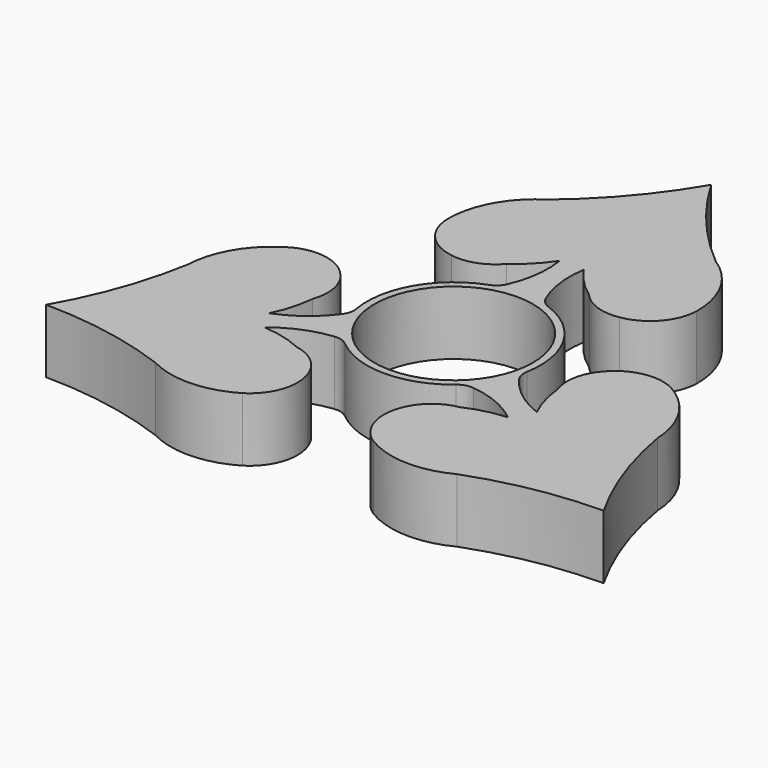
from build123d import *

# Parameters (mm, degrees)
F0_R     = 11.049
F1_DEPTH = 8.89


with BuildPart() as f1:
    # F0 (on Top) → F1 (new body)
    with BuildSketch(Plane.XY):
        with BuildLine():
            ThreePointArc((11.714875, 31.015255), (5.251306, 37.412893), (0, 44.837937))
            ThreePointArc((0, 44.837937), (-5.251306, 37.412893), (-11.714875, 31.015255))
            ThreePointArc((-11.714875, 31.015255), (-15.901101, 26.520837), (-17.367264, 20.556388))
            ThreePointArc((-17.367264, 20.556388), (-15.673703, 16.382272), (-11.714875, 14.233069))
            ThreePointArc((-11.714875, 14.233069), (-8.437028, 14.509929), (-5.732354, 16.382272))
            ThreePointArc((-5.732354, 16.382272), (-3.512988, 18.279396), (-1.68543, 20.556388))
            ThreePointArc((-1.68543, 20.556388), (-1.608188, 16.559998), (-2.668499, 12.706059))
            ThreePointArc((-2.668499, 12.706059), (-3.257242, 11.872099), (-4.126771, 11.337283))
            ThreePointArc((-4.126771, 11.337283), (-10.448596, 6.0325), (-11.881761, -2.094753))
            ThreePointArc((-11.881761, -2.094753), (-11.786859, -2.575692), (-11.672498, -3.052378))
            ThreePointArc((-11.672498, -3.052378), (-10.448596, -6.0325), (-8.479686, -8.582491))
            ThreePointArc((-8.479686, -8.582491), (-8.124044, -8.919873), (-7.75499, -9.24253))
            ThreePointArc((-7.75499, -9.24253), (0, -12.065), (7.75499, -9.24253))
            ThreePointArc((7.75499, -9.24253), (8.124044, -8.919873), (8.479686, -8.582491))
            ThreePointArc((8.479686, -8.582491), (10.685028, -5.603072), (11.881761, -2.094753))
            ThreePointArc((11.881761, -2.094753), (10.448596, 6.0325), (4.126771, 11.337283))
            ThreePointArc((4.126771, 11.337283), (3.257242, 11.872099), (2.668499, 12.706059))
            ThreePointArc((2.668499, 12.706059), (1.608188, 16.559998), (1.68543, 20.556388))
            ThreePointArc((1.68543, 20.556388), (3.512988, 18.279396), (5.732354, 16.382272))
            ThreePointArc((5.732354, 16.382272), (8.437028, 14.509929), (11.714875, 14.233069))
            ThreePointArc((11.714875, 14.233069), (15.673703, 16.382272), (17.367264, 20.556388))
            ThreePointArc((17.367264, 20.556388), (15.901101, 26.520837), (11.714875, 31.015255))
        make_face()
        Circle(F0_R, mode=Mode.SUBTRACT)
        with BuildLine():
            ThreePointArc((11.714875, 31.015255), (5.251306, 37.412893), (0, 44.837937))
            ThreePointArc((0, 44.837937), (-5.251306, 37.412893), (-11.714875, 31.015255))
            ThreePointArc((-11.714875, 31.015255), (-15.901101, 26.520837), (-17.367264, 20.556388))
            ThreePointArc((-17.367264, 20.556388), (-15.673703, 16.382272), (-11.714875, 14.233069))
            ThreePointArc((-11.714875, 14.233069), (-8.437028, 14.509929), (-5.732354, 16.382272))
            ThreePointArc((-5.732354, 16.382272), (-3.512988, 18.279396), (-1.68543, 20.556388))
            ThreePointArc((-1.68543, 20.556388), (-1.608188, 16.559998), (-2.668499, 12.706059))
            ThreePointArc((-2.668499, 12.706059), (-3.257242, 11.872099), (-4.126771, 11.337283))
            ThreePointArc((-4.126771, 11.337283), (-10.448596, 6.0325), (-11.881761, -2.094753))
            ThreePointArc((-11.881761, -2.094753), (-11.786859, -2.575692), (-11.672498, -3.052378))
            ThreePointArc((-11.672498, -3.052378), (-10.448596, -6.0325), (-8.479686, -8.582491))
            ThreePointArc((-8.479686, -8.582491), (-8.124044, -8.919873), (-7.75499, -9.24253))
            ThreePointArc((-7.75499, -9.24253), (0, -12.065), (7.75499, -9.24253))
            ThreePointArc((7.75499, -9.24253), (8.124044, -8.919873), (8.479686, -8.582491))
            ThreePointArc((8.479686, -8.582491), (10.685028, -5.603072), (11.881761, -2.094753))
            ThreePointArc((11.881761, -2.094753), (10.448596, 6.0325), (4.126771, 11.337283))
            ThreePointArc((4.126771, 11.337283), (3.257242, 11.872099), (2.668499, 12.706059))
            ThreePointArc((2.668499, 12.706059), (1.608188, 16.559998), (1.68543, 20.556388))
            ThreePointArc((1.68543, 20.556388), (3.512988, 18.279396), (5.732354, 16.382272))
            ThreePointArc((5.732354, 16.382272), (8.437028, 14.509929), (11.714875, 14.233069))
            ThreePointArc((11.714875, 14.233069), (15.673703, 16.382272), (17.367264, 20.556388))
            ThreePointArc((17.367264, 20.556388), (15.901101, 26.520837), (11.714875, 31.015255))
        make_face()
        Circle(F0_R, mode=Mode.SUBTRACT)
        with BuildLine():
            ThreePointArc((11.714875, 31.015255), (5.251306, 37.412893), (0, 44.837937))
            ThreePointArc((0, 44.837937), (-5.251306, 37.412893), (-11.714875, 31.015255))
            ThreePointArc((-11.714875, 31.015255), (-15.901101, 26.520837), (-17.367264, 20.556388))
            ThreePointArc((-17.367264, 20.556388), (-15.673703, 16.382272), (-11.714875, 14.233069))
            ThreePointArc((-11.714875, 14.233069), (-8.437028, 14.509929), (-5.732354, 16.382272))
            ThreePointArc((-5.732354, 16.382272), (-3.512988, 18.279396), (-1.68543, 20.556388))
            ThreePointArc((-1.68543, 20.556388), (-1.608188, 16.559998), (-2.668499, 12.706059))
            ThreePointArc((-2.668499, 12.706059), (-3.257242, 11.872099), (-4.126771, 11.337283))
            ThreePointArc((-4.126771, 11.337283), (-10.448596, 6.0325), (-11.881761, -2.094753))
            ThreePointArc((-11.881761, -2.094753), (-11.786859, -2.575692), (-11.672498, -3.052378))
            ThreePointArc((-11.672498, -3.052378), (-10.448596, -6.0325), (-8.479686, -8.582491))
            ThreePointArc((-8.479686, -8.582491), (-8.124044, -8.919873), (-7.75499, -9.24253))
            ThreePointArc((-7.75499, -9.24253), (0, -12.065), (7.75499, -9.24253))
            ThreePointArc((7.75499, -9.24253), (8.124044, -8.919873), (8.479686, -8.582491))
            ThreePointArc((8.479686, -8.582491), (10.685028, -5.603072), (11.881761, -2.094753))
            ThreePointArc((11.881761, -2.094753), (10.448596, 6.0325), (4.126771, 11.337283))
            ThreePointArc((4.126771, 11.337283), (3.257242, 11.872099), (2.668499, 12.706059))
            ThreePointArc((2.668499, 12.706059), (1.608188, 16.559998), (1.68543, 20.556388))
            ThreePointArc((1.68543, 20.556388), (3.512988, 18.279396), (5.732354, 16.382272))
            ThreePointArc((5.732354, 16.382272), (8.437028, 14.509929), (11.714875, 14.233069))
            ThreePointArc((11.714875, 14.233069), (15.673703, 16.382272), (17.367264, 20.556388))
            ThreePointArc((17.367264, 20.556388), (15.901101, 26.520837), (11.714875, 31.015255))
        make_face()
        Circle(F0_R, mode=Mode.SUBTRACT)
        with BuildLine():
            ThreePointArc((11.714875, 31.015255), (5.251306, 37.412893), (0, 44.837937))
            ThreePointArc((0, 44.837937), (-5.251306, 37.412893), (-11.714875, 31.015255))
            ThreePointArc((-11.714875, 31.015255), (-15.901101, 26.520837), (-17.367264, 20.556388))
            ThreePointArc((-17.367264, 20.556388), (-15.673703, 16.382272), (-11.714875, 14.233069))
            ThreePointArc((-11.714875, 14.233069), (-8.437028, 14.509929), (-5.732354, 16.382272))
            ThreePointArc((-5.732354, 16.382272), (-3.512988, 18.279396), (-1.68543, 20.556388))
            ThreePointArc((-1.68543, 20.556388), (-1.608188, 16.559998), (-2.668499, 12.706059))
            ThreePointArc((-2.668499, 12.706059), (-3.257242, 11.872099), (-4.126771, 11.337283))
            ThreePointArc((-4.126771, 11.337283), (-10.448596, 6.0325), (-11.881761, -2.094753))
            ThreePointArc((-11.881761, -2.094753), (-11.786859, -2.575692), (-11.672498, -3.052378))
            ThreePointArc((-11.672498, -3.052378), (-10.448596, -6.0325), (-8.479686, -8.582491))
            ThreePointArc((-8.479686, -8.582491), (-8.124044, -8.919873), (-7.75499, -9.24253))
            ThreePointArc((-7.75499, -9.24253), (0, -12.065), (7.75499, -9.24253))
            ThreePointArc((7.75499, -9.24253), (8.124044, -8.919873), (8.479686, -8.582491))
            ThreePointArc((8.479686, -8.582491), (10.685028, -5.603072), (11.881761, -2.094753))
            ThreePointArc((11.881761, -2.094753), (10.448596, 6.0325), (4.126771, 11.337283))
            ThreePointArc((4.126771, 11.337283), (3.257242, 11.872099), (2.668499, 12.706059))
            ThreePointArc((2.668499, 12.706059), (1.608188, 16.559998), (1.68543, 20.556388))
            ThreePointArc((1.68543, 20.556388), (3.512988, 18.279396), (5.732354, 16.382272))
            ThreePointArc((5.732354, 16.382272), (8.437028, 14.509929), (11.714875, 14.233069))
            ThreePointArc((11.714875, 14.233069), (15.673703, 16.382272), (17.367264, 20.556388))
            ThreePointArc((17.367264, 20.556388), (15.901101, 26.520837), (11.714875, 31.015255))
        make_face()
        Circle(F0_R, mode=Mode.SUBTRACT)
        with BuildLine():
            ThreePointArc((11.714875, 31.015255), (5.251306, 37.412893), (0, 44.837937))
            ThreePointArc((0, 44.837937), (-5.251306, 37.412893), (-11.714875, 31.015255))
            ThreePointArc((-11.714875, 31.015255), (-15.901101, 26.520837), (-17.367264, 20.556388))
            ThreePointArc((-17.367264, 20.556388), (-15.673703, 16.382272), (-11.714875, 14.233069))
            ThreePointArc((-11.714875, 14.233069), (-8.437028, 14.509929), (-5.732354, 16.382272))
            ThreePointArc((-5.732354, 16.382272), (-3.512988, 18.279396), (-1.68543, 20.556388))
            ThreePointArc((-1.68543, 20.556388), (-1.608188, 16.559998), (-2.668499, 12.706059))
            ThreePointArc((-2.668499, 12.706059), (-3.257242, 11.872099), (-4.126771, 11.337283))
            ThreePointArc((-4.126771, 11.337283), (-10.448596, 6.0325), (-11.881761, -2.094753))
            ThreePointArc((-11.881761, -2.094753), (-11.786859, -2.575692), (-11.672498, -3.052378))
            ThreePointArc((-11.672498, -3.052378), (-10.448596, -6.0325), (-8.479686, -8.582491))
            ThreePointArc((-8.479686, -8.582491), (-8.124044, -8.919873), (-7.75499, -9.24253))
            ThreePointArc((-7.75499, -9.24253), (0, -12.065), (7.75499, -9.24253))
            ThreePointArc((7.75499, -9.24253), (8.124044, -8.919873), (8.479686, -8.582491))
            ThreePointArc((8.479686, -8.582491), (10.685028, -5.603072), (11.881761, -2.094753))
            ThreePointArc((11.881761, -2.094753), (10.448596, 6.0325), (4.126771, 11.337283))
            ThreePointArc((4.126771, 11.337283), (3.257242, 11.872099), (2.668499, 12.706059))
            ThreePointArc((2.668499, 12.706059), (1.608188, 16.559998), (1.68543, 20.556388))
            ThreePointArc((1.68543, 20.556388), (3.512988, 18.279396), (5.732354, 16.382272))
            ThreePointArc((5.732354, 16.382272), (8.437028, 14.509929), (11.714875, 14.233069))
            ThreePointArc((11.714875, 14.233069), (15.673703, 16.382272), (17.367264, 20.556388))
            ThreePointArc((17.367264, 20.556388), (15.901101, 26.520837), (11.714875, 31.015255))
        make_face()
        Circle(F0_R, mode=Mode.SUBTRACT)
        with BuildLine():
            ThreePointArc((11.714875, 31.015255), (5.251306, 37.412893), (0, 44.837937))
            ThreePointArc((0, 44.837937), (-5.251306, 37.412893), (-11.714875, 31.015255))
            ThreePointArc((-11.714875, 31.015255), (-15.901101, 26.520837), (-17.367264, 20.556388))
            ThreePointArc((-17.367264, 20.556388), (-15.673703, 16.382272), (-11.714875, 14.233069))
            ThreePointArc((-11.714875, 14.233069), (-8.437028, 14.509929), (-5.732354, 16.382272))
            ThreePointArc((-5.732354, 16.382272), (-3.512988, 18.279396), (-1.68543, 20.556388))
            ThreePointArc((-1.68543, 20.556388), (-1.608188, 16.559998), (-2.668499, 12.706059))
            ThreePointArc((-2.668499, 12.706059), (-3.257242, 11.872099), (-4.126771, 11.337283))
            ThreePointArc((-4.126771, 11.337283), (-10.448596, 6.0325), (-11.881761, -2.094753))
            ThreePointArc((-11.881761, -2.094753), (-11.786859, -2.575692), (-11.672498, -3.052378))
            ThreePointArc((-11.672498, -3.052378), (-10.448596, -6.0325), (-8.479686, -8.582491))
            ThreePointArc((-8.479686, -8.582491), (-8.124044, -8.919873), (-7.75499, -9.24253))
            ThreePointArc((-7.75499, -9.24253), (0, -12.065), (7.75499, -9.24253))
            ThreePointArc((7.75499, -9.24253), (8.124044, -8.919873), (8.479686, -8.582491))
            ThreePointArc((8.479686, -8.582491), (10.685028, -5.603072), (11.881761, -2.094753))
            ThreePointArc((11.881761, -2.094753), (10.448596, 6.0325), (4.126771, 11.337283))
            ThreePointArc((4.126771, 11.337283), (3.257242, 11.872099), (2.668499, 12.706059))
            ThreePointArc((2.668499, 12.706059), (1.608188, 16.559998), (1.68543, 20.556388))
            ThreePointArc((1.68543, 20.556388), (3.512988, 18.279396), (5.732354, 16.382272))
            ThreePointArc((5.732354, 16.382272), (8.437028, 14.509929), (11.714875, 14.233069))
            ThreePointArc((11.714875, 14.233069), (15.673703, 16.382272), (17.367264, 20.556388))
            ThreePointArc((17.367264, 20.556388), (15.901101, 26.520837), (11.714875, 31.015255))
        make_face()
        Circle(F0_R, mode=Mode.SUBTRACT)
        with BuildLine():
            ThreePointArc((-11.672498, -3.052378), (-11.786859, -2.575692), (-11.881761, -2.094753))
            ThreePointArc((-11.881761, -2.094753), (-11.91016, -3.115195), (-12.33802, -4.042042))
            ThreePointArc((-12.33802, -4.042042), (-15.145473, -6.887267), (-18.64507, -8.818569))
            ThreePointArc((-18.64507, -8.818569), (-17.586915, -6.097361), (-17.053641, -3.226772))
            ThreePointArc((-17.053641, -3.226772), (-16.784481, 0.051716), (-18.183637, 3.028844))
            ThreePointArc((-18.183637, 3.028844), (-22.024315, 5.382689), (-26.485987, 4.762298))
            ThreePointArc((-26.485987, 4.762298), (-30.918269, 0.510339), (-32.717436, -5.362249))
            ThreePointArc((-32.717436, -5.362249), (-35.026169, -14.158682), (-38.830792, -22.418968))
            ThreePointArc((-38.830792, -22.418968), (-29.774863, -23.254211), (-21.002562, -25.653007))
            ThreePointArc((-21.002562, -25.653007), (-15.017168, -27.031176), (-9.118722, -25.318686))
            ThreePointArc((-9.118722, -25.318686), (-6.350612, -21.764961), (-6.468762, -17.261914))
            ThreePointArc((-6.468762, -17.261914), (-8.347453, -14.561645), (-11.321287, -13.1555))
            ThreePointArc((-11.321287, -13.1555), (-14.073927, -12.182034), (-16.95964, -11.737819))
            ThreePointArc((-16.95964, -11.737819), (-13.537285, -9.672731), (-9.669521, -8.664017))
            ThreePointArc((-9.669521, -8.664017), (-8.652918, -8.756903), (-7.75499, -9.24253))
            ThreePointArc((-7.75499, -9.24253), (-8.124044, -8.919873), (-8.479686, -8.582491))
            ThreePointArc((-8.479686, -8.582491), (-10.448596, -6.0325), (-11.672498, -3.052378))
        make_face()
        with BuildLine():
            ThreePointArc((-11.672498, -3.052378), (-11.786859, -2.575692), (-11.881761, -2.094753))
            ThreePointArc((-11.881761, -2.094753), (-11.91016, -3.115195), (-12.33802, -4.042042))
            ThreePointArc((-12.33802, -4.042042), (-15.145473, -6.887267), (-18.64507, -8.818569))
            ThreePointArc((-18.64507, -8.818569), (-17.586915, -6.097361), (-17.053641, -3.226772))
            ThreePointArc((-17.053641, -3.226772), (-16.784481, 0.051716), (-18.183637, 3.028844))
            ThreePointArc((-18.183637, 3.028844), (-22.024315, 5.382689), (-26.485987, 4.762298))
            ThreePointArc((-26.485987, 4.762298), (-30.918269, 0.510339), (-32.717436, -5.362249))
            ThreePointArc((-32.717436, -5.362249), (-35.026169, -14.158682), (-38.830792, -22.418968))
            ThreePointArc((-38.830792, -22.418968), (-29.774863, -23.254211), (-21.002562, -25.653007))
            ThreePointArc((-21.002562, -25.653007), (-15.017168, -27.031176), (-9.118722, -25.318686))
            ThreePointArc((-9.118722, -25.318686), (-6.350612, -21.764961), (-6.468762, -17.261914))
            ThreePointArc((-6.468762, -17.261914), (-8.347453, -14.561645), (-11.321287, -13.1555))
            ThreePointArc((-11.321287, -13.1555), (-14.073927, -12.182034), (-16.95964, -11.737819))
            ThreePointArc((-16.95964, -11.737819), (-13.537285, -9.672731), (-9.669521, -8.664017))
            ThreePointArc((-9.669521, -8.664017), (-8.652918, -8.756903), (-7.75499, -9.24253))
            ThreePointArc((-7.75499, -9.24253), (-8.124044, -8.919873), (-8.479686, -8.582491))
            ThreePointArc((-8.479686, -8.582491), (-10.448596, -6.0325), (-11.672498, -3.052378))
        make_face()
        with BuildLine():
            ThreePointArc((-11.672498, -3.052378), (-11.786859, -2.575692), (-11.881761, -2.094753))
            ThreePointArc((-11.881761, -2.094753), (-11.91016, -3.115195), (-12.33802, -4.042042))
            ThreePointArc((-12.33802, -4.042042), (-15.145473, -6.887267), (-18.64507, -8.818569))
            ThreePointArc((-18.64507, -8.818569), (-17.586915, -6.097361), (-17.053641, -3.226772))
            ThreePointArc((-17.053641, -3.226772), (-16.784481, 0.051716), (-18.183637, 3.028844))
            ThreePointArc((-18.183637, 3.028844), (-22.024315, 5.382689), (-26.485987, 4.762298))
            ThreePointArc((-26.485987, 4.762298), (-30.918269, 0.510339), (-32.717436, -5.362249))
            ThreePointArc((-32.717436, -5.362249), (-35.026169, -14.158682), (-38.830792, -22.418968))
            ThreePointArc((-38.830792, -22.418968), (-29.774863, -23.254211), (-21.002562, -25.653007))
            ThreePointArc((-21.002562, -25.653007), (-15.017168, -27.031176), (-9.118722, -25.318686))
            ThreePointArc((-9.118722, -25.318686), (-6.350612, -21.764961), (-6.468762, -17.261914))
            ThreePointArc((-6.468762, -17.261914), (-8.347453, -14.561645), (-11.321287, -13.1555))
            ThreePointArc((-11.321287, -13.1555), (-14.073927, -12.182034), (-16.95964, -11.737819))
            ThreePointArc((-16.95964, -11.737819), (-13.537285, -9.672731), (-9.669521, -8.664017))
            ThreePointArc((-9.669521, -8.664017), (-8.652918, -8.756903), (-7.75499, -9.24253))
            ThreePointArc((-7.75499, -9.24253), (-8.124044, -8.919873), (-8.479686, -8.582491))
            ThreePointArc((-8.479686, -8.582491), (-10.448596, -6.0325), (-11.672498, -3.052378))
        make_face()
        with BuildLine():
            ThreePointArc((-11.672498, -3.052378), (-11.786859, -2.575692), (-11.881761, -2.094753))
            ThreePointArc((-11.881761, -2.094753), (-11.91016, -3.115195), (-12.33802, -4.042042))
            ThreePointArc((-12.33802, -4.042042), (-15.145473, -6.887267), (-18.64507, -8.818569))
            ThreePointArc((-18.64507, -8.818569), (-17.586915, -6.097361), (-17.053641, -3.226772))
            ThreePointArc((-17.053641, -3.226772), (-16.784481, 0.051716), (-18.183637, 3.028844))
            ThreePointArc((-18.183637, 3.028844), (-22.024315, 5.382689), (-26.485987, 4.762298))
            ThreePointArc((-26.485987, 4.762298), (-30.918269, 0.510339), (-32.717436, -5.362249))
            ThreePointArc((-32.717436, -5.362249), (-35.026169, -14.158682), (-38.830792, -22.418968))
            ThreePointArc((-38.830792, -22.418968), (-29.774863, -23.254211), (-21.002562, -25.653007))
            ThreePointArc((-21.002562, -25.653007), (-15.017168, -27.031176), (-9.118722, -25.318686))
            ThreePointArc((-9.118722, -25.318686), (-6.350612, -21.764961), (-6.468762, -17.261914))
            ThreePointArc((-6.468762, -17.261914), (-8.347453, -14.561645), (-11.321287, -13.1555))
            ThreePointArc((-11.321287, -13.1555), (-14.073927, -12.182034), (-16.95964, -11.737819))
            ThreePointArc((-16.95964, -11.737819), (-13.537285, -9.672731), (-9.669521, -8.664017))
            ThreePointArc((-9.669521, -8.664017), (-8.652918, -8.756903), (-7.75499, -9.24253))
            ThreePointArc((-7.75499, -9.24253), (-8.124044, -8.919873), (-8.479686, -8.582491))
            ThreePointArc((-8.479686, -8.582491), (-10.448596, -6.0325), (-11.672498, -3.052378))
        make_face()
        with BuildLine():
            ThreePointArc((-11.672498, -3.052378), (-11.786859, -2.575692), (-11.881761, -2.094753))
            ThreePointArc((-11.881761, -2.094753), (-11.91016, -3.115195), (-12.33802, -4.042042))
            ThreePointArc((-12.33802, -4.042042), (-15.145473, -6.887267), (-18.64507, -8.818569))
            ThreePointArc((-18.64507, -8.818569), (-17.586915, -6.097361), (-17.053641, -3.226772))
            ThreePointArc((-17.053641, -3.226772), (-16.784481, 0.051716), (-18.183637, 3.028844))
            ThreePointArc((-18.183637, 3.028844), (-22.024315, 5.382689), (-26.485987, 4.762298))
            ThreePointArc((-26.485987, 4.762298), (-30.918269, 0.510339), (-32.717436, -5.362249))
            ThreePointArc((-32.717436, -5.362249), (-35.026169, -14.158682), (-38.830792, -22.418968))
            ThreePointArc((-38.830792, -22.418968), (-29.774863, -23.254211), (-21.002562, -25.653007))
            ThreePointArc((-21.002562, -25.653007), (-15.017168, -27.031176), (-9.118722, -25.318686))
            ThreePointArc((-9.118722, -25.318686), (-6.350612, -21.764961), (-6.468762, -17.261914))
            ThreePointArc((-6.468762, -17.261914), (-8.347453, -14.561645), (-11.321287, -13.1555))
            ThreePointArc((-11.321287, -13.1555), (-14.073927, -12.182034), (-16.95964, -11.737819))
            ThreePointArc((-16.95964, -11.737819), (-13.537285, -9.672731), (-9.669521, -8.664017))
            ThreePointArc((-9.669521, -8.664017), (-8.652918, -8.756903), (-7.75499, -9.24253))
            ThreePointArc((-7.75499, -9.24253), (-8.124044, -8.919873), (-8.479686, -8.582491))
            ThreePointArc((-8.479686, -8.582491), (-10.448596, -6.0325), (-11.672498, -3.052378))
        make_face()
        with BuildLine():
            ThreePointArc((-11.672498, -3.052378), (-11.786859, -2.575692), (-11.881761, -2.094753))
            ThreePointArc((-11.881761, -2.094753), (-11.91016, -3.115195), (-12.33802, -4.042042))
            ThreePointArc((-12.33802, -4.042042), (-15.145473, -6.887267), (-18.64507, -8.818569))
            ThreePointArc((-18.64507, -8.818569), (-17.586915, -6.097361), (-17.053641, -3.226772))
            ThreePointArc((-17.053641, -3.226772), (-16.784481, 0.051716), (-18.183637, 3.028844))
            ThreePointArc((-18.183637, 3.028844), (-22.024315, 5.382689), (-26.485987, 4.762298))
            ThreePointArc((-26.485987, 4.762298), (-30.918269, 0.510339), (-32.717436, -5.362249))
            ThreePointArc((-32.717436, -5.362249), (-35.026169, -14.158682), (-38.830792, -22.418968))
            ThreePointArc((-38.830792, -22.418968), (-29.774863, -23.254211), (-21.002562, -25.653007))
            ThreePointArc((-21.002562, -25.653007), (-15.017168, -27.031176), (-9.118722, -25.318686))
            ThreePointArc((-9.118722, -25.318686), (-6.350612, -21.764961), (-6.468762, -17.261914))
            ThreePointArc((-6.468762, -17.261914), (-8.347453, -14.561645), (-11.321287, -13.1555))
            ThreePointArc((-11.321287, -13.1555), (-14.073927, -12.182034), (-16.95964, -11.737819))
            ThreePointArc((-16.95964, -11.737819), (-13.537285, -9.672731), (-9.669521, -8.664017))
            ThreePointArc((-9.669521, -8.664017), (-8.652918, -8.756903), (-7.75499, -9.24253))
            ThreePointArc((-7.75499, -9.24253), (-8.124044, -8.919873), (-8.479686, -8.582491))
            ThreePointArc((-8.479686, -8.582491), (-10.448596, -6.0325), (-11.672498, -3.052378))
        make_face()
        with BuildLine():
            ThreePointArc((-11.672498, -3.052378), (-11.786859, -2.575692), (-11.881761, -2.094753))
            ThreePointArc((-11.881761, -2.094753), (-11.91016, -3.115195), (-12.33802, -4.042042))
            ThreePointArc((-12.33802, -4.042042), (-15.145473, -6.887267), (-18.64507, -8.818569))
            ThreePointArc((-18.64507, -8.818569), (-17.586915, -6.097361), (-17.053641, -3.226772))
            ThreePointArc((-17.053641, -3.226772), (-16.784481, 0.051716), (-18.183637, 3.028844))
            ThreePointArc((-18.183637, 3.028844), (-22.024315, 5.382689), (-26.485987, 4.762298))
            ThreePointArc((-26.485987, 4.762298), (-30.918269, 0.510339), (-32.717436, -5.362249))
            ThreePointArc((-32.717436, -5.362249), (-35.026169, -14.158682), (-38.830792, -22.418968))
            ThreePointArc((-38.830792, -22.418968), (-29.774863, -23.254211), (-21.002562, -25.653007))
            ThreePointArc((-21.002562, -25.653007), (-15.017168, -27.031176), (-9.118722, -25.318686))
            ThreePointArc((-9.118722, -25.318686), (-6.350612, -21.764961), (-6.468762, -17.261914))
            ThreePointArc((-6.468762, -17.261914), (-8.347453, -14.561645), (-11.321287, -13.1555))
            ThreePointArc((-11.321287, -13.1555), (-14.073927, -12.182034), (-16.95964, -11.737819))
            ThreePointArc((-16.95964, -11.737819), (-13.537285, -9.672731), (-9.669521, -8.664017))
            ThreePointArc((-9.669521, -8.664017), (-8.652918, -8.756903), (-7.75499, -9.24253))
            ThreePointArc((-7.75499, -9.24253), (-8.124044, -8.919873), (-8.479686, -8.582491))
            ThreePointArc((-8.479686, -8.582491), (-10.448596, -6.0325), (-11.672498, -3.052378))
        make_face()
        with BuildLine():
            ThreePointArc((12.33802, -4.042042), (11.91016, -3.115195), (11.881761, -2.094753))
            ThreePointArc((11.881761, -2.094753), (10.685028, -5.603072), (8.479686, -8.582491))
            ThreePointArc((8.479686, -8.582491), (8.124044, -8.919873), (7.75499, -9.24253))
            ThreePointArc((7.75499, -9.24253), (8.652918, -8.756903), (9.669521, -8.664017))
            ThreePointArc((9.669521, -8.664017), (13.537285, -9.672731), (16.95964, -11.737819))
            ThreePointArc((16.95964, -11.737819), (14.073927, -12.182034), (11.321287, -13.1555))
            ThreePointArc((11.321287, -13.1555), (8.347453, -14.561645), (6.468762, -17.261914))
            ThreePointArc((6.468762, -17.261914), (6.350612, -21.764961), (9.118722, -25.318686))
            ThreePointArc((9.118722, -25.318686), (15.017168, -27.031176), (21.002562, -25.653007))
            ThreePointArc((21.002562, -25.653007), (29.774863, -23.254211), (38.830792, -22.418968))
            ThreePointArc((38.830792, -22.418968), (35.026169, -14.158682), (32.717436, -5.362249))
            ThreePointArc((32.717436, -5.362249), (30.918269, 0.510339), (26.485987, 4.762298))
            ThreePointArc((26.485987, 4.762298), (22.024315, 5.382689), (18.183637, 3.028844))
            ThreePointArc((18.183637, 3.028844), (16.784481, 0.051716), (17.053641, -3.226772))
            ThreePointArc((17.053641, -3.226772), (17.586915, -6.097361), (18.64507, -8.818569))
            ThreePointArc((18.64507, -8.818569), (15.145473, -6.887267), (12.33802, -4.042042))
        make_face()
        with BuildLine():
            ThreePointArc((12.33802, -4.042042), (11.91016, -3.115195), (11.881761, -2.094753))
            ThreePointArc((11.881761, -2.094753), (10.685028, -5.603072), (8.479686, -8.582491))
            ThreePointArc((8.479686, -8.582491), (8.124044, -8.919873), (7.75499, -9.24253))
            ThreePointArc((7.75499, -9.24253), (8.652918, -8.756903), (9.669521, -8.664017))
            ThreePointArc((9.669521, -8.664017), (13.537285, -9.672731), (16.95964, -11.737819))
            ThreePointArc((16.95964, -11.737819), (14.073927, -12.182034), (11.321287, -13.1555))
            ThreePointArc((11.321287, -13.1555), (8.347453, -14.561645), (6.468762, -17.261914))
            ThreePointArc((6.468762, -17.261914), (6.350612, -21.764961), (9.118722, -25.318686))
            ThreePointArc((9.118722, -25.318686), (15.017168, -27.031176), (21.002562, -25.653007))
            ThreePointArc((21.002562, -25.653007), (29.774863, -23.254211), (38.830792, -22.418968))
            ThreePointArc((38.830792, -22.418968), (35.026169, -14.158682), (32.717436, -5.362249))
            ThreePointArc((32.717436, -5.362249), (30.918269, 0.510339), (26.485987, 4.762298))
            ThreePointArc((26.485987, 4.762298), (22.024315, 5.382689), (18.183637, 3.028844))
            ThreePointArc((18.183637, 3.028844), (16.784481, 0.051716), (17.053641, -3.226772))
            ThreePointArc((17.053641, -3.226772), (17.586915, -6.097361), (18.64507, -8.818569))
            ThreePointArc((18.64507, -8.818569), (15.145473, -6.887267), (12.33802, -4.042042))
        make_face()
        with BuildLine():
            ThreePointArc((12.33802, -4.042042), (11.91016, -3.115195), (11.881761, -2.094753))
            ThreePointArc((11.881761, -2.094753), (10.685028, -5.603072), (8.479686, -8.582491))
            ThreePointArc((8.479686, -8.582491), (8.124044, -8.919873), (7.75499, -9.24253))
            ThreePointArc((7.75499, -9.24253), (8.652918, -8.756903), (9.669521, -8.664017))
            ThreePointArc((9.669521, -8.664017), (13.537285, -9.672731), (16.95964, -11.737819))
            ThreePointArc((16.95964, -11.737819), (14.073927, -12.182034), (11.321287, -13.1555))
            ThreePointArc((11.321287, -13.1555), (8.347453, -14.561645), (6.468762, -17.261914))
            ThreePointArc((6.468762, -17.261914), (6.350612, -21.764961), (9.118722, -25.318686))
            ThreePointArc((9.118722, -25.318686), (15.017168, -27.031176), (21.002562, -25.653007))
            ThreePointArc((21.002562, -25.653007), (29.774863, -23.254211), (38.830792, -22.418968))
            ThreePointArc((38.830792, -22.418968), (35.026169, -14.158682), (32.717436, -5.362249))
            ThreePointArc((32.717436, -5.362249), (30.918269, 0.510339), (26.485987, 4.762298))
            ThreePointArc((26.485987, 4.762298), (22.024315, 5.382689), (18.183637, 3.028844))
            ThreePointArc((18.183637, 3.028844), (16.784481, 0.051716), (17.053641, -3.226772))
            ThreePointArc((17.053641, -3.226772), (17.586915, -6.097361), (18.64507, -8.818569))
            ThreePointArc((18.64507, -8.818569), (15.145473, -6.887267), (12.33802, -4.042042))
        make_face()
        with BuildLine():
            ThreePointArc((12.33802, -4.042042), (11.91016, -3.115195), (11.881761, -2.094753))
            ThreePointArc((11.881761, -2.094753), (10.685028, -5.603072), (8.479686, -8.582491))
            ThreePointArc((8.479686, -8.582491), (8.124044, -8.919873), (7.75499, -9.24253))
            ThreePointArc((7.75499, -9.24253), (8.652918, -8.756903), (9.669521, -8.664017))
            ThreePointArc((9.669521, -8.664017), (13.537285, -9.672731), (16.95964, -11.737819))
            ThreePointArc((16.95964, -11.737819), (14.073927, -12.182034), (11.321287, -13.1555))
            ThreePointArc((11.321287, -13.1555), (8.347453, -14.561645), (6.468762, -17.261914))
            ThreePointArc((6.468762, -17.261914), (6.350612, -21.764961), (9.118722, -25.318686))
            ThreePointArc((9.118722, -25.318686), (15.017168, -27.031176), (21.002562, -25.653007))
            ThreePointArc((21.002562, -25.653007), (29.774863, -23.254211), (38.830792, -22.418968))
            ThreePointArc((38.830792, -22.418968), (35.026169, -14.158682), (32.717436, -5.362249))
            ThreePointArc((32.717436, -5.362249), (30.918269, 0.510339), (26.485987, 4.762298))
            ThreePointArc((26.485987, 4.762298), (22.024315, 5.382689), (18.183637, 3.028844))
            ThreePointArc((18.183637, 3.028844), (16.784481, 0.051716), (17.053641, -3.226772))
            ThreePointArc((17.053641, -3.226772), (17.586915, -6.097361), (18.64507, -8.818569))
            ThreePointArc((18.64507, -8.818569), (15.145473, -6.887267), (12.33802, -4.042042))
        make_face()
        with BuildLine():
            ThreePointArc((12.33802, -4.042042), (11.91016, -3.115195), (11.881761, -2.094753))
            ThreePointArc((11.881761, -2.094753), (10.685028, -5.603072), (8.479686, -8.582491))
            ThreePointArc((8.479686, -8.582491), (8.124044, -8.919873), (7.75499, -9.24253))
            ThreePointArc((7.75499, -9.24253), (8.652918, -8.756903), (9.669521, -8.664017))
            ThreePointArc((9.669521, -8.664017), (13.537285, -9.672731), (16.95964, -11.737819))
            ThreePointArc((16.95964, -11.737819), (14.073927, -12.182034), (11.321287, -13.1555))
            ThreePointArc((11.321287, -13.1555), (8.347453, -14.561645), (6.468762, -17.261914))
            ThreePointArc((6.468762, -17.261914), (6.350612, -21.764961), (9.118722, -25.318686))
            ThreePointArc((9.118722, -25.318686), (15.017168, -27.031176), (21.002562, -25.653007))
            ThreePointArc((21.002562, -25.653007), (29.774863, -23.254211), (38.830792, -22.418968))
            ThreePointArc((38.830792, -22.418968), (35.026169, -14.158682), (32.717436, -5.362249))
            ThreePointArc((32.717436, -5.362249), (30.918269, 0.510339), (26.485987, 4.762298))
            ThreePointArc((26.485987, 4.762298), (22.024315, 5.382689), (18.183637, 3.028844))
            ThreePointArc((18.183637, 3.028844), (16.784481, 0.051716), (17.053641, -3.226772))
            ThreePointArc((17.053641, -3.226772), (17.586915, -6.097361), (18.64507, -8.818569))
            ThreePointArc((18.64507, -8.818569), (15.145473, -6.887267), (12.33802, -4.042042))
        make_face()
        with BuildLine():
            ThreePointArc((12.33802, -4.042042), (11.91016, -3.115195), (11.881761, -2.094753))
            ThreePointArc((11.881761, -2.094753), (10.685028, -5.603072), (8.479686, -8.582491))
            ThreePointArc((8.479686, -8.582491), (8.124044, -8.919873), (7.75499, -9.24253))
            ThreePointArc((7.75499, -9.24253), (8.652918, -8.756903), (9.669521, -8.664017))
            ThreePointArc((9.669521, -8.664017), (13.537285, -9.672731), (16.95964, -11.737819))
            ThreePointArc((16.95964, -11.737819), (14.073927, -12.182034), (11.321287, -13.1555))
            ThreePointArc((11.321287, -13.1555), (8.347453, -14.561645), (6.468762, -17.261914))
            ThreePointArc((6.468762, -17.261914), (6.350612, -21.764961), (9.118722, -25.318686))
            ThreePointArc((9.118722, -25.318686), (15.017168, -27.031176), (21.002562, -25.653007))
            ThreePointArc((21.002562, -25.653007), (29.774863, -23.254211), (38.830792, -22.418968))
            ThreePointArc((38.830792, -22.418968), (35.026169, -14.158682), (32.717436, -5.362249))
            ThreePointArc((32.717436, -5.362249), (30.918269, 0.510339), (26.485987, 4.762298))
            ThreePointArc((26.485987, 4.762298), (22.024315, 5.382689), (18.183637, 3.028844))
            ThreePointArc((18.183637, 3.028844), (16.784481, 0.051716), (17.053641, -3.226772))
            ThreePointArc((17.053641, -3.226772), (17.586915, -6.097361), (18.64507, -8.818569))
            ThreePointArc((18.64507, -8.818569), (15.145473, -6.887267), (12.33802, -4.042042))
        make_face()
        with BuildLine():
            ThreePointArc((12.33802, -4.042042), (11.91016, -3.115195), (11.881761, -2.094753))
            ThreePointArc((11.881761, -2.094753), (10.685028, -5.603072), (8.479686, -8.582491))
            ThreePointArc((8.479686, -8.582491), (8.124044, -8.919873), (7.75499, -9.24253))
            ThreePointArc((7.75499, -9.24253), (8.652918, -8.756903), (9.669521, -8.664017))
            ThreePointArc((9.669521, -8.664017), (13.537285, -9.672731), (16.95964, -11.737819))
            ThreePointArc((16.95964, -11.737819), (14.073927, -12.182034), (11.321287, -13.1555))
            ThreePointArc((11.321287, -13.1555), (8.347453, -14.561645), (6.468762, -17.261914))
            ThreePointArc((6.468762, -17.261914), (6.350612, -21.764961), (9.118722, -25.318686))
            ThreePointArc((9.118722, -25.318686), (15.017168, -27.031176), (21.002562, -25.653007))
            ThreePointArc((21.002562, -25.653007), (29.774863, -23.254211), (38.830792, -22.418968))
            ThreePointArc((38.830792, -22.418968), (35.026169, -14.158682), (32.717436, -5.362249))
            ThreePointArc((32.717436, -5.362249), (30.918269, 0.510339), (26.485987, 4.762298))
            ThreePointArc((26.485987, 4.762298), (22.024315, 5.382689), (18.183637, 3.028844))
            ThreePointArc((18.183637, 3.028844), (16.784481, 0.051716), (17.053641, -3.226772))
            ThreePointArc((17.053641, -3.226772), (17.586915, -6.097361), (18.64507, -8.818569))
            ThreePointArc((18.64507, -8.818569), (15.145473, -6.887267), (12.33802, -4.042042))
        make_face()
        with BuildLine():
            ThreePointArc((-11.672498, -3.052378), (-11.786859, -2.575692), (-11.881761, -2.094753))
            ThreePointArc((-11.881761, -2.094753), (-11.91016, -3.115195), (-12.33802, -4.042042))
            ThreePointArc((-12.33802, -4.042042), (-15.145473, -6.887267), (-18.64507, -8.818569))
            ThreePointArc((-18.64507, -8.818569), (-17.586915, -6.097361), (-17.053641, -3.226772))
            ThreePointArc((-17.053641, -3.226772), (-16.784481, 0.051716), (-18.183637, 3.028844))
            ThreePointArc((-18.183637, 3.028844), (-22.024315, 5.382689), (-26.485987, 4.762298))
            ThreePointArc((-26.485987, 4.762298), (-30.918269, 0.510339), (-32.717436, -5.362249))
            ThreePointArc((-32.717436, -5.362249), (-35.026169, -14.158682), (-38.830792, -22.418968))
            ThreePointArc((-38.830792, -22.418968), (-29.774863, -23.254211), (-21.002562, -25.653007))
            ThreePointArc((-21.002562, -25.653007), (-15.017168, -27.031176), (-9.118722, -25.318686))
            ThreePointArc((-9.118722, -25.318686), (-6.350612, -21.764961), (-6.468762, -17.261914))
            ThreePointArc((-6.468762, -17.261914), (-8.347453, -14.561645), (-11.321287, -13.1555))
            ThreePointArc((-11.321287, -13.1555), (-14.073927, -12.182034), (-16.95964, -11.737819))
            ThreePointArc((-16.95964, -11.737819), (-13.537285, -9.672731), (-9.669521, -8.664017))
            ThreePointArc((-9.669521, -8.664017), (-8.652918, -8.756903), (-7.75499, -9.24253))
            ThreePointArc((-7.75499, -9.24253), (-8.124044, -8.919873), (-8.479686, -8.582491))
            ThreePointArc((-8.479686, -8.582491), (-10.448596, -6.0325), (-11.672498, -3.052378))
        make_face()
        with BuildLine():
            ThreePointArc((12.33802, -4.042042), (11.91016, -3.115195), (11.881761, -2.094753))
            ThreePointArc((11.881761, -2.094753), (10.685028, -5.603072), (8.479686, -8.582491))
            ThreePointArc((8.479686, -8.582491), (8.124044, -8.919873), (7.75499, -9.24253))
            ThreePointArc((7.75499, -9.24253), (8.652918, -8.756903), (9.669521, -8.664017))
            ThreePointArc((9.669521, -8.664017), (13.537285, -9.672731), (16.95964, -11.737819))
            ThreePointArc((16.95964, -11.737819), (14.073927, -12.182034), (11.321287, -13.1555))
            ThreePointArc((11.321287, -13.1555), (8.347453, -14.561645), (6.468762, -17.261914))
            ThreePointArc((6.468762, -17.261914), (6.350612, -21.764961), (9.118722, -25.318686))
            ThreePointArc((9.118722, -25.318686), (15.017168, -27.031176), (21.002562, -25.653007))
            ThreePointArc((21.002562, -25.653007), (29.774863, -23.254211), (38.830792, -22.418968))
            ThreePointArc((38.830792, -22.418968), (35.026169, -14.158682), (32.717436, -5.362249))
            ThreePointArc((32.717436, -5.362249), (30.918269, 0.510339), (26.485987, 4.762298))
            ThreePointArc((26.485987, 4.762298), (22.024315, 5.382689), (18.183637, 3.028844))
            ThreePointArc((18.183637, 3.028844), (16.784481, 0.051716), (17.053641, -3.226772))
            ThreePointArc((17.053641, -3.226772), (17.586915, -6.097361), (18.64507, -8.818569))
            ThreePointArc((18.64507, -8.818569), (15.145473, -6.887267), (12.33802, -4.042042))
        make_face()
        with BuildLine():
            ThreePointArc((11.714875, 31.015255), (5.251306, 37.412893), (0, 44.837937))
            ThreePointArc((0, 44.837937), (-5.251306, 37.412893), (-11.714875, 31.015255))
            ThreePointArc((-11.714875, 31.015255), (-15.901101, 26.520837), (-17.367264, 20.556388))
            ThreePointArc((-17.367264, 20.556388), (-15.673703, 16.382272), (-11.714875, 14.233069))
            ThreePointArc((-11.714875, 14.233069), (-8.437028, 14.509929), (-5.732354, 16.382272))
            ThreePointArc((-5.732354, 16.382272), (-3.512988, 18.279396), (-1.68543, 20.556388))
            ThreePointArc((-1.68543, 20.556388), (-1.608188, 16.559998), (-2.668499, 12.706059))
            ThreePointArc((-2.668499, 12.706059), (-3.257242, 11.872099), (-4.126771, 11.337283))
            ThreePointArc((-4.126771, 11.337283), (-10.448596, 6.0325), (-11.881761, -2.094753))
            ThreePointArc((-11.881761, -2.094753), (-11.786859, -2.575692), (-11.672498, -3.052378))
            ThreePointArc((-11.672498, -3.052378), (-10.448596, -6.0325), (-8.479686, -8.582491))
            ThreePointArc((-8.479686, -8.582491), (-8.124044, -8.919873), (-7.75499, -9.24253))
            ThreePointArc((-7.75499, -9.24253), (0, -12.065), (7.75499, -9.24253))
            ThreePointArc((7.75499, -9.24253), (8.124044, -8.919873), (8.479686, -8.582491))
            ThreePointArc((8.479686, -8.582491), (10.685028, -5.603072), (11.881761, -2.094753))
            ThreePointArc((11.881761, -2.094753), (10.448596, 6.0325), (4.126771, 11.337283))
            ThreePointArc((4.126771, 11.337283), (3.257242, 11.872099), (2.668499, 12.706059))
            ThreePointArc((2.668499, 12.706059), (1.608188, 16.559998), (1.68543, 20.556388))
            ThreePointArc((1.68543, 20.556388), (3.512988, 18.279396), (5.732354, 16.382272))
            ThreePointArc((5.732354, 16.382272), (8.437028, 14.509929), (11.714875, 14.233069))
            ThreePointArc((11.714875, 14.233069), (15.673703, 16.382272), (17.367264, 20.556388))
            ThreePointArc((17.367264, 20.556388), (15.901101, 26.520837), (11.714875, 31.015255))
        make_face()
        Circle(F0_R, mode=Mode.SUBTRACT)
        with BuildLine():
            ThreePointArc((11.714875, 31.015255), (5.251306, 37.412893), (0, 44.837937))
            ThreePointArc((0, 44.837937), (-5.251306, 37.412893), (-11.714875, 31.015255))
            ThreePointArc((-11.714875, 31.015255), (-15.901101, 26.520837), (-17.367264, 20.556388))
            ThreePointArc((-17.367264, 20.556388), (-15.673703, 16.382272), (-11.714875, 14.233069))
            ThreePointArc((-11.714875, 14.233069), (-8.437028, 14.509929), (-5.732354, 16.382272))
            ThreePointArc((-5.732354, 16.382272), (-3.512988, 18.279396), (-1.68543, 20.556388))
            ThreePointArc((-1.68543, 20.556388), (-1.608188, 16.559998), (-2.668499, 12.706059))
            ThreePointArc((-2.668499, 12.706059), (-3.257242, 11.872099), (-4.126771, 11.337283))
            ThreePointArc((-4.126771, 11.337283), (-10.448596, 6.0325), (-11.881761, -2.094753))
            ThreePointArc((-11.881761, -2.094753), (-11.786859, -2.575692), (-11.672498, -3.052378))
            ThreePointArc((-11.672498, -3.052378), (-10.448596, -6.0325), (-8.479686, -8.582491))
            ThreePointArc((-8.479686, -8.582491), (-8.124044, -8.919873), (-7.75499, -9.24253))
            ThreePointArc((-7.75499, -9.24253), (0, -12.065), (7.75499, -9.24253))
            ThreePointArc((7.75499, -9.24253), (8.124044, -8.919873), (8.479686, -8.582491))
            ThreePointArc((8.479686, -8.582491), (10.685028, -5.603072), (11.881761, -2.094753))
            ThreePointArc((11.881761, -2.094753), (10.448596, 6.0325), (4.126771, 11.337283))
            ThreePointArc((4.126771, 11.337283), (3.257242, 11.872099), (2.668499, 12.706059))
            ThreePointArc((2.668499, 12.706059), (1.608188, 16.559998), (1.68543, 20.556388))
            ThreePointArc((1.68543, 20.556388), (3.512988, 18.279396), (5.732354, 16.382272))
            ThreePointArc((5.732354, 16.382272), (8.437028, 14.509929), (11.714875, 14.233069))
            ThreePointArc((11.714875, 14.233069), (15.673703, 16.382272), (17.367264, 20.556388))
            ThreePointArc((17.367264, 20.556388), (15.901101, 26.520837), (11.714875, 31.015255))
        make_face()
        Circle(F0_R, mode=Mode.SUBTRACT)
        with BuildLine():
            ThreePointArc((-11.672498, -3.052378), (-11.786859, -2.575692), (-11.881761, -2.094753))
            ThreePointArc((-11.881761, -2.094753), (-11.91016, -3.115195), (-12.33802, -4.042042))
            ThreePointArc((-12.33802, -4.042042), (-15.145473, -6.887267), (-18.64507, -8.818569))
            ThreePointArc((-18.64507, -8.818569), (-17.586915, -6.097361), (-17.053641, -3.226772))
            ThreePointArc((-17.053641, -3.226772), (-16.784481, 0.051716), (-18.183637, 3.028844))
            ThreePointArc((-18.183637, 3.028844), (-22.024315, 5.382689), (-26.485987, 4.762298))
            ThreePointArc((-26.485987, 4.762298), (-30.918269, 0.510339), (-32.717436, -5.362249))
            ThreePointArc((-32.717436, -5.362249), (-35.026169, -14.158682), (-38.830792, -22.418968))
            ThreePointArc((-38.830792, -22.418968), (-29.774863, -23.254211), (-21.002562, -25.653007))
            ThreePointArc((-21.002562, -25.653007), (-15.017168, -27.031176), (-9.118722, -25.318686))
            ThreePointArc((-9.118722, -25.318686), (-6.350612, -21.764961), (-6.468762, -17.261914))
            ThreePointArc((-6.468762, -17.261914), (-8.347453, -14.561645), (-11.321287, -13.1555))
            ThreePointArc((-11.321287, -13.1555), (-14.073927, -12.182034), (-16.95964, -11.737819))
            ThreePointArc((-16.95964, -11.737819), (-13.537285, -9.672731), (-9.669521, -8.664017))
            ThreePointArc((-9.669521, -8.664017), (-8.652918, -8.756903), (-7.75499, -9.24253))
            ThreePointArc((-7.75499, -9.24253), (-8.124044, -8.919873), (-8.479686, -8.582491))
            ThreePointArc((-8.479686, -8.582491), (-10.448596, -6.0325), (-11.672498, -3.052378))
        make_face()
        with BuildLine():
            ThreePointArc((12.33802, -4.042042), (11.91016, -3.115195), (11.881761, -2.094753))
            ThreePointArc((11.881761, -2.094753), (10.685028, -5.603072), (8.479686, -8.582491))
            ThreePointArc((8.479686, -8.582491), (8.124044, -8.919873), (7.75499, -9.24253))
            ThreePointArc((7.75499, -9.24253), (8.652918, -8.756903), (9.669521, -8.664017))
            ThreePointArc((9.669521, -8.664017), (13.537285, -9.672731), (16.95964, -11.737819))
            ThreePointArc((16.95964, -11.737819), (14.073927, -12.182034), (11.321287, -13.1555))
            ThreePointArc((11.321287, -13.1555), (8.347453, -14.561645), (6.468762, -17.261914))
            ThreePointArc((6.468762, -17.261914), (6.350612, -21.764961), (9.118722, -25.318686))
            ThreePointArc((9.118722, -25.318686), (15.017168, -27.031176), (21.002562, -25.653007))
            ThreePointArc((21.002562, -25.653007), (29.774863, -23.254211), (38.830792, -22.418968))
            ThreePointArc((38.830792, -22.418968), (35.026169, -14.158682), (32.717436, -5.362249))
            ThreePointArc((32.717436, -5.362249), (30.918269, 0.510339), (26.485987, 4.762298))
            ThreePointArc((26.485987, 4.762298), (22.024315, 5.382689), (18.183637, 3.028844))
            ThreePointArc((18.183637, 3.028844), (16.784481, 0.051716), (17.053641, -3.226772))
            ThreePointArc((17.053641, -3.226772), (17.586915, -6.097361), (18.64507, -8.818569))
            ThreePointArc((18.64507, -8.818569), (15.145473, -6.887267), (12.33802, -4.042042))
        make_face()
        with BuildLine():
            ThreePointArc((11.714875, 31.015255), (5.251306, 37.412893), (0, 44.837937))
            ThreePointArc((0, 44.837937), (-5.251306, 37.412893), (-11.714875, 31.015255))
            ThreePointArc((-11.714875, 31.015255), (-15.901101, 26.520837), (-17.367264, 20.556388))
            ThreePointArc((-17.367264, 20.556388), (-15.673703, 16.382272), (-11.714875, 14.233069))
            ThreePointArc((-11.714875, 14.233069), (-8.437028, 14.509929), (-5.732354, 16.382272))
            ThreePointArc((-5.732354, 16.382272), (-3.512988, 18.279396), (-1.68543, 20.556388))
            ThreePointArc((-1.68543, 20.556388), (-1.608188, 16.559998), (-2.668499, 12.706059))
            ThreePointArc((-2.668499, 12.706059), (-3.257242, 11.872099), (-4.126771, 11.337283))
            ThreePointArc((-4.126771, 11.337283), (-10.448596, 6.0325), (-11.881761, -2.094753))
            ThreePointArc((-11.881761, -2.094753), (-11.786859, -2.575692), (-11.672498, -3.052378))
            ThreePointArc((-11.672498, -3.052378), (-10.448596, -6.0325), (-8.479686, -8.582491))
            ThreePointArc((-8.479686, -8.582491), (-8.124044, -8.919873), (-7.75499, -9.24253))
            ThreePointArc((-7.75499, -9.24253), (0, -12.065), (7.75499, -9.24253))
            ThreePointArc((7.75499, -9.24253), (8.124044, -8.919873), (8.479686, -8.582491))
            ThreePointArc((8.479686, -8.582491), (10.685028, -5.603072), (11.881761, -2.094753))
            ThreePointArc((11.881761, -2.094753), (10.448596, 6.0325), (4.126771, 11.337283))
            ThreePointArc((4.126771, 11.337283), (3.257242, 11.872099), (2.668499, 12.706059))
            ThreePointArc((2.668499, 12.706059), (1.608188, 16.559998), (1.68543, 20.556388))
            ThreePointArc((1.68543, 20.556388), (3.512988, 18.279396), (5.732354, 16.382272))
            ThreePointArc((5.732354, 16.382272), (8.437028, 14.509929), (11.714875, 14.233069))
            ThreePointArc((11.714875, 14.233069), (15.673703, 16.382272), (17.367264, 20.556388))
            ThreePointArc((17.367264, 20.556388), (15.901101, 26.520837), (11.714875, 31.015255))
        make_face()
        Circle(F0_R, mode=Mode.SUBTRACT)
    extrude(amount=F1_DEPTH)


solid = f1.part
